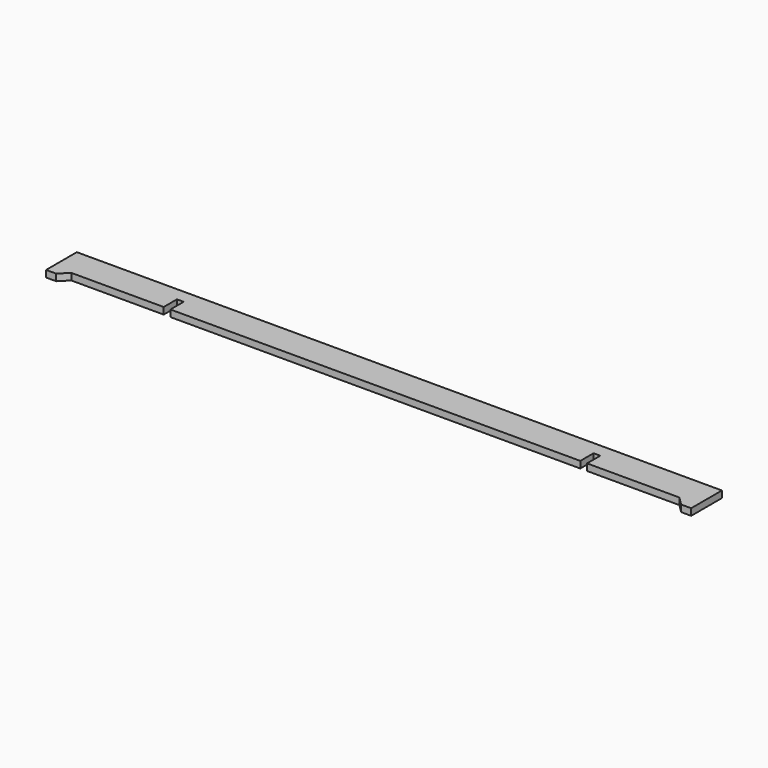
from build123d import *

# Parameters (mm, degrees)
F1_DEPTH = 6.35


with BuildPart() as f1:
    # F0 (on Top) → F1 (new body)
    with BuildSketch(Plane.XY):
        Polygon((641.35, 138.1125), (31.75, 138.1125), (31.75, 101.806273), (41.275, 101.806273), (49.2125, 109.743773), (136.525, 109.743773), (136.525, 125.4125), (142.875, 125.4125), (142.875, 109.743773), (530.225, 109.743773), (530.225, 125.4125), (536.575, 125.4125), (536.575, 109.743773), (623.8875, 109.743773), (631.825, 101.806273), (641.35, 101.806273), align=None)
    extrude(amount=F1_DEPTH)


solid = f1.part
